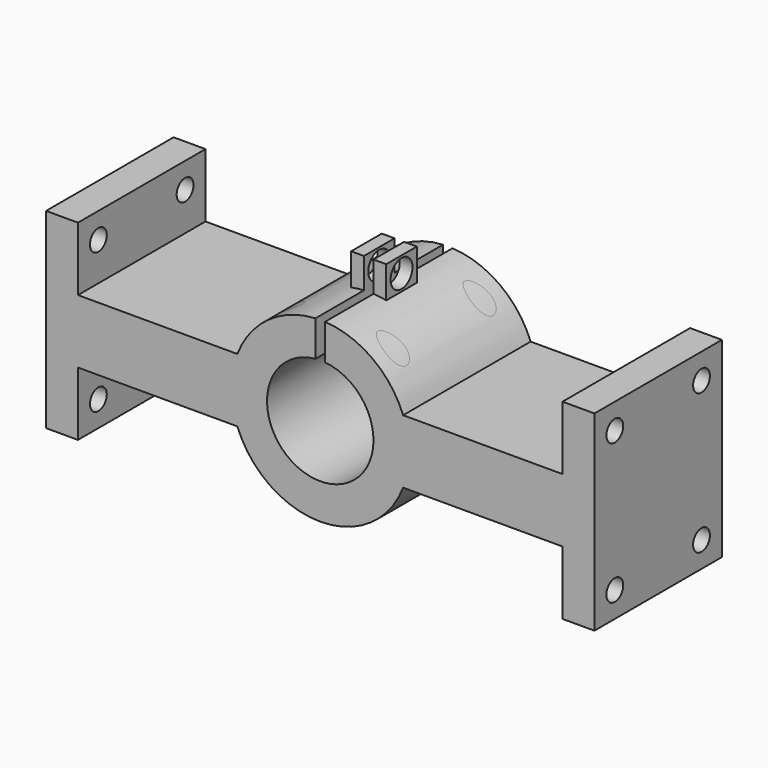
from build123d import *

# Parameters (mm, degrees)
F0_W      = 86
F0_H      = 30
F0_R      = 8.35
F1_DEPTH  = 12.5
F3_DEPTH  = 12.5
F4_R      = 1.65
F5_DEPTH  = 65
F6_R      = 1.65
F7_DEPTH  = 12.5
F9_DEPTH  = 12.5
F11_DEPTH = 12.5
F13_DEPTH = 3
F14_R     = 2.15
F15_DEPTH = 12.5


with BuildPart() as f1:
    # F0 (on Front) → F1 (new body, symmetric)
    with BuildSketch(Plane.XZ):
        Rectangle(F0_W, F0_H)
        Circle(F0_R, mode=Mode.SUBTRACT)
    extrude(amount=F1_DEPTH, both=True)

    # F2 (on Front) → F3 (cut, symmetric)
    with BuildSketch(Plane.XZ):
        with BuildLine():
            Line((38, 15), (-38, 15))
            Line((-38, 15), (-38, 5))
            Line((-38, 5), (-13, 5))
            ThreePointArc((-13, 5), (0, 13.9283882772), (13, 5))
            Line((13, 5), (38, 5))
            Line((38, 5), (38, 15))
        make_face()
        with BuildLine():
            Line((-13, -5), (-38, -5))
            Line((-38, -5), (-38, -15))
            Line((-38, -15), (38, -15))
            Line((38, -15), (38, -5))
            Line((38, -5), (13, -5))
            ThreePointArc((13, -5), (0, -13.9283882772), (-13, -5))
        make_face()
    extrude(amount=F3_DEPTH, both=True, mode=Mode.SUBTRACT)

    # F4 (on Right) → F5 (cut, symmetric)
    with BuildSketch(Plane.YZ):
        with Locations((8.5, 11)):
            Circle(F4_R)
        with Locations((8.5, -11)):
            Circle(F4_R)
        with Locations((-8.5, 11)):
            Circle(F4_R)
        with Locations((-8.5, -11)):
            Circle(F4_R)
    extrude(amount=F5_DEPTH, both=True, mode=Mode.SUBTRACT)

    # F6 (on Right) → F7 (join, symmetric)
    with BuildSketch(Plane.YZ):
        with Locations((8.5, 11)):
            Circle(F6_R)
        with Locations((8.5, -11)):
            Circle(F6_R)
        with Locations((-8.5, 11)):
            Circle(F6_R)
        with Locations((-8.5, -11)):
            Circle(F6_R)
    extrude(amount=F7_DEPTH, both=True)

    # F8 (on Front) → F9 (cut, symmetric)
    with BuildSketch(Plane.XZ):
        with BuildLine():
            Line((38, 15), (-38, 15))
            Line((-38, 15), (-38, 5))
            Line((-38, 5), (-13, 5))
            ThreePointArc((-13, 5), (0, 13.9283882772), (13, 5))
            Line((13, 5), (38, 5))
            Line((38, 5), (38, 15))
        make_face()
        with BuildLine():
            Line((-13, -5), (-38, -5))
            Line((-38, -5), (-38, -15))
            Line((-38, -15), (38, -15))
            Line((38, -15), (38, -5))
            Line((38, -5), (13, -5))
            ThreePointArc((13, -5), (0, -13.9283882772), (-13, -5))
        make_face()
    extrude(amount=F9_DEPTH, both=True, mode=Mode.SUBTRACT)

    # F10 (on Front) → F11 (cut, symmetric)
    with BuildSketch(Plane.XZ):
        with BuildLine():
            ThreePointArc((0.75, 13.9081810457), (0, 14.6581810457), (-0.75, 13.9081810457))
            Line((-0.75, 13.9081810457), (-0.75, 8.3162491545))
            ThreePointArc((-0.75, 8.3162491545), (0, 7.5662491545), (0.75, 8.3162491545))
            Line((0.75, 8.3162491545), (0.75, 13.9081810457))
        make_face()
    extrude(amount=F11_DEPTH, both=True, mode=Mode.SUBTRACT)

    # F12 (on Front) → F13 (join, symmetric)
    with BuildSketch(Plane.XZ):
        with BuildLine():
            Line((-0.75, 13.9081810457), (-0.75, 18.6542118044))
            Line((-0.75, 18.6542118044), (-2.75, 18.6542118044))
            Line((-2.75, 18.6542118044), (-2.75, 13.6542118044))
            ThreePointArc((-2.75, 13.6542118044), (-1.754601121, 13.8174301122), (-0.75, 13.9081810457))
        make_face()
        with BuildLine():
            Line((0.75, 18.6542118044), (0.75, 13.9081810457))
            ThreePointArc((0.75, 13.9081810457), (1.754601121, 13.8174301122), (2.75, 13.6542118044))
            Line((2.75, 13.6542118044), (2.75, 18.6542118044))
            Line((2.75, 18.6542118044), (0.75, 18.6542118044))
        make_face()
    extrude(amount=F13_DEPTH, both=True)

    # F14 (on Right) → F15 (cut, symmetric)
    with BuildSketch(Plane.YZ):
        with Locations((0, 16.1542118044)):
            Circle(F14_R)
    extrude(amount=F15_DEPTH, both=True, mode=Mode.SUBTRACT)


solid = f1.part
